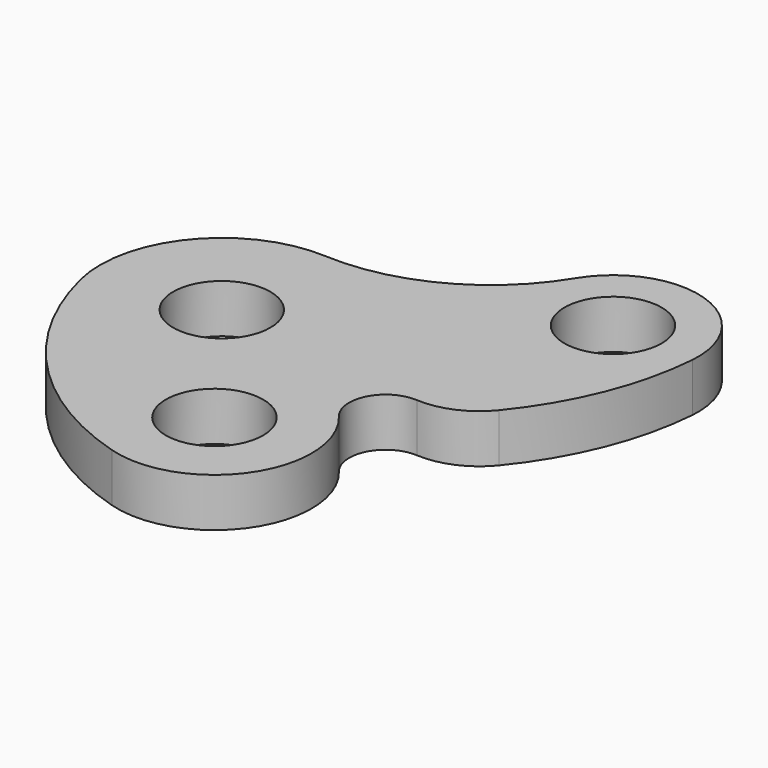
from build123d import *

# Parameters (mm, degrees)
F0_R     = 10
F1_DEPTH = 10


with BuildPart() as f1:
    # F0 (on Top) → F1 (new body)
    with BuildSketch(Plane.XY):
        with BuildLine():
            ThreePointArc((37.554206, 44.103474), (22.067235, 29.538399), (1.304766, 24.965929))
            ThreePointArc((1.304766, 24.965929), (-19.255297, 15.944702), (-24.284847, -5.93685))
            ThreePointArc((-24.284847, -5.93685), (-9.512511, -33.001447), (16.750607, -49.155795))
            ThreePointArc((16.750607, -49.155795), (39.169931, -41.050494), (37.904534, -17.244596))
            ThreePointArc((37.904534, -17.244596), (36.990811, -9.071889), (44.120823, -4.974213))
            ThreePointArc((44.120823, -4.974213), (51.030762, -3.734261), (56.619703, 0.514089))
            ThreePointArc((56.619703, 0.514089), (65.792763, 16.032989), (69.941986, 33.576228))
            ThreePointArc((69.941986, 33.576228), (57.909572, 51.642912), (37.554206, 44.103474))
        make_face()
        Circle(F0_R, mode=Mode.SUBTRACT)
        with Locations((22.5, -30)):
            Circle(F0_R, mode=Mode.SUBTRACT)
        with Locations((52.5, 35)):
            Circle(F0_R, mode=Mode.SUBTRACT)
    extrude(amount=F1_DEPTH)


solid = f1.part
